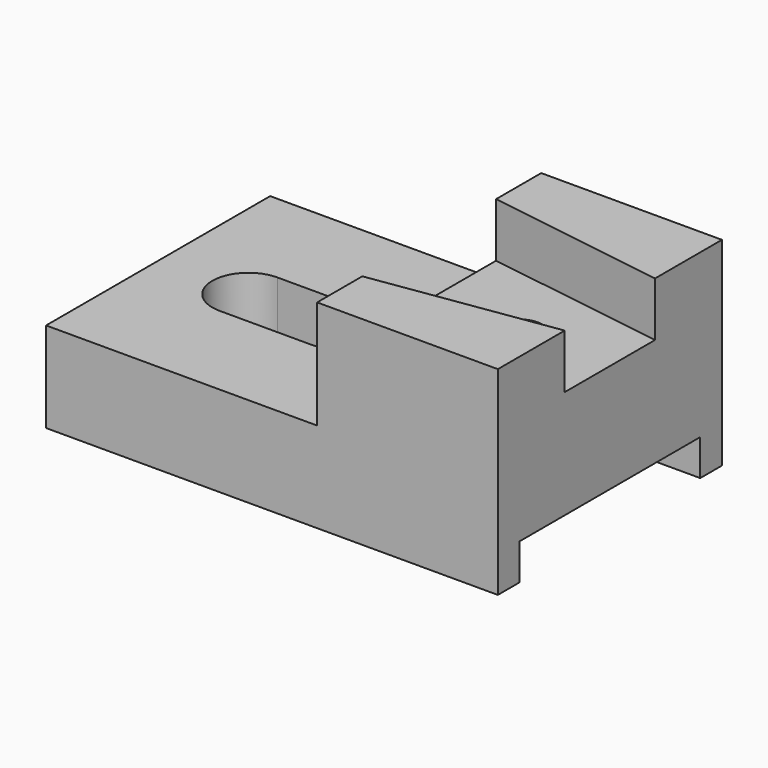
from build123d import *

# Parameters (mm, degrees)
F0_W     = 60
F0_H     = 6
F0_W_2   = 40
F1_DEPTH = 8
F2_DEPTH = 12
F0_R     = 5
F3_DEPTH = 24
F4_DEPTH = 36


with BuildPart() as f1:
    # F0 (on Top) → F1 (new body)
    with BuildSketch(Plane.XY):
        with Locations((0, -28)):
            Rectangle(F0_W, F0_H)
        with Locations((50, -28)):
            Rectangle(F0_W_2, F0_H)
        with Locations((0, 28)):
            Rectangle(F0_W, F0_H)
        with Locations((50, 28)):
            Rectangle(F0_W_2, F0_H)
    extrude(amount=-F1_DEPTH)

    # F0 (on Top) → F2 (join)
    with BuildSketch(Plane.XY):
        with Locations((0, 28)):
            Rectangle(F0_W, F0_H)
        Polygon((30, 25), (-30, 25), (-30, -25), (30, -25), (30, -18.5), (30, 18.5), align=None)
        with BuildLine():
            ThreePointArc((-10, -8), (-18, 0), (-10, 8))
            Line((-10, 8), (10, 8))
            ThreePointArc((10, 8), (18, 0), (10, -8))
            Line((10, -8), (-10, -8))
        make_face(mode=Mode.SUBTRACT)
        with Locations((0, -28)):
            Rectangle(F0_W, F0_H)
    extrude(amount=F2_DEPTH)

    # F0 (on Top) → F3 (join)
    with BuildSketch(Plane.XY):
        with Locations((50, 28)):
            Rectangle(F0_W_2, F0_H)
        Polygon((70, 25), (30, 25), (30, 18.5), (70, 12.5), align=None)
        Polygon((70, 12.5), (30, 18.5), (30, -18.5), (70, -12.5), align=None)
        with Locations((50, 0)):
            Circle(F0_R, mode=Mode.SUBTRACT)
        Polygon((30, -18.5), (30, -25), (70, -25), (70, -12.5), align=None)
        with Locations((50, -28)):
            Rectangle(F0_W_2, F0_H)
    extrude(amount=F3_DEPTH)

    # F0 (on Top) → F4 (join)
    with BuildSketch(Plane.XY):
        Polygon((30, -18.5), (30, -25), (70, -25), (70, -12.5), align=None)
        with Locations((50, -28)):
            Rectangle(F0_W_2, F0_H)
        Polygon((70, 25), (30, 25), (30, 18.5), (70, 12.5), align=None)
        with Locations((50, 28)):
            Rectangle(F0_W_2, F0_H)
    extrude(amount=F4_DEPTH)


solid = f1.part
